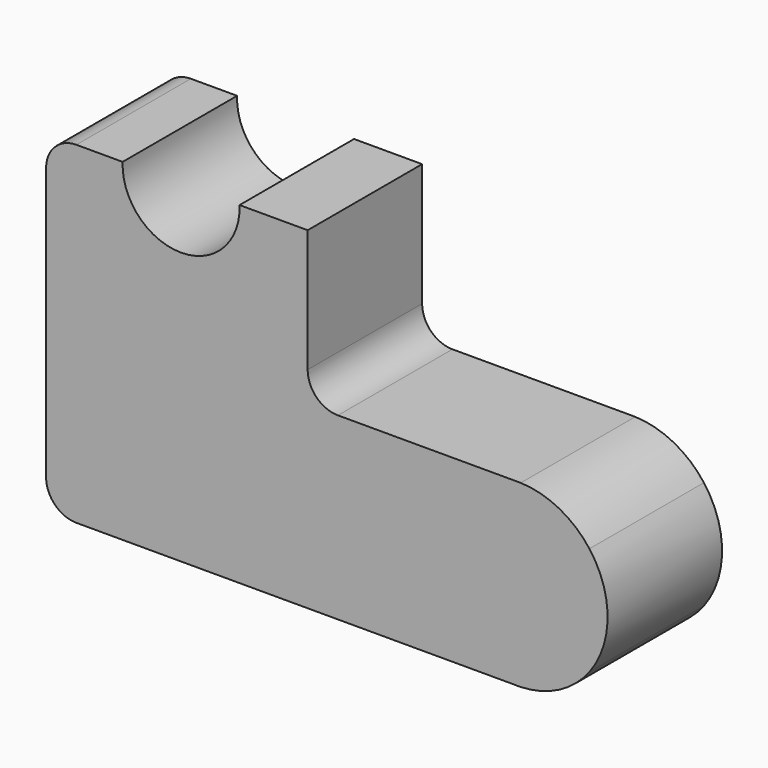
from build123d import *

# Parameters (mm, degrees)
F1_DEPTH = 30


with BuildPart() as f1:
    # F0 (on Front) → F1 (new body)
    with BuildSketch(Plane.XZ):
        with BuildLine():
            ThreePointArc((-15.73736, 0), (-15.037043, -0.013016), (-14.336725, 0))
            Line((-14.336725, 0), (-15.73736, 0))
        make_face()
        with BuildLine():
            Line((-15.73736, 0), (-14.336725, 0))
            ThreePointArc((-14.336725, 0), (-6.326476, 2.120679), (0, 7.472041))
            ThreePointArc((0, 7.472041), (3.809757, 18.833784), (0, 30.195527))
            ThreePointArc((0, 30.195527), (-6.35205, 35.560193), (-14.394344, 37.669623))
            Line((-14.394344, 37.669623), (-52.721513, 37.669623))
            ThreePointArc((-52.721513, 37.669623), (-57.211641, 39.529494), (-59.071513, 44.019623))
            Line((-59.071513, 44.019623), (-59.071513, 69.771163))
            Line((-59.071513, 69.771163), (-73.345571, 69.771163))
            ThreePointArc((-73.345571, 69.771163), (-85.601762, 57.005839), (-97.857952, 69.771163))
            Line((-97.857952, 69.771163), (-107.557546, 69.771163))
            ThreePointArc((-107.557546, 69.771163), (-112.047674, 67.911291), (-113.907546, 63.421163))
            Line((-113.907546, 63.421163), (-113.907546, 6.35))
            ThreePointArc((-113.907546, 6.35), (-112.047674, 1.859872), (-107.557546, 0))
            Line((-107.557546, 0), (-15.73736, 0))
        make_face()
    extrude(amount=F1_DEPTH)


solid = f1.part
